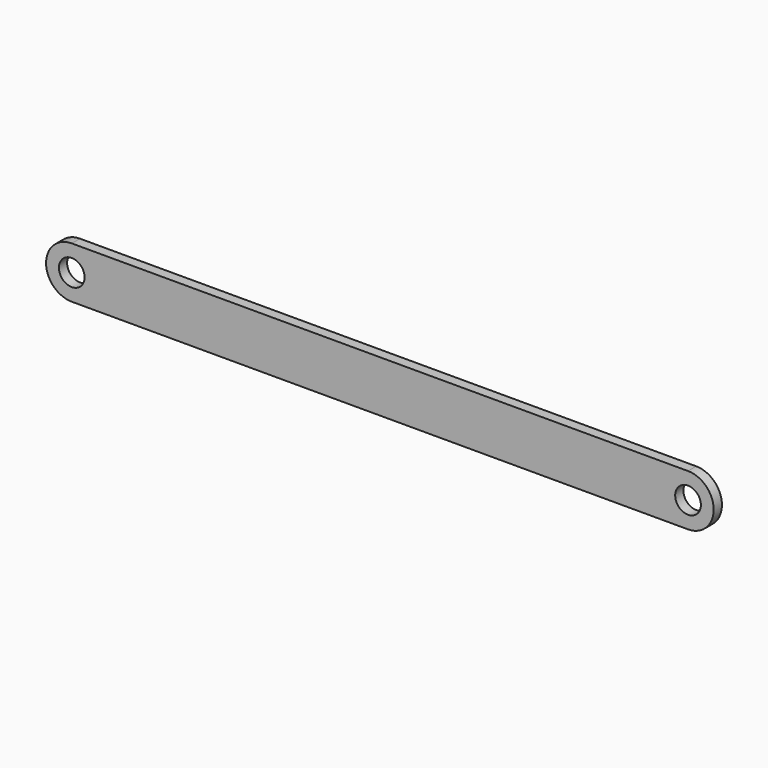
from build123d import *

# Parameters (mm, degrees)
F0_R     = 3.175
F1_DEPTH = 2.54


with BuildPart() as f1:
    # F0 (on Front) → F1 (new body)
    with BuildSketch(Plane.XZ):
        with BuildLine():
            Line((-76.2, -6.35), (0, -6.35))
            ThreePointArc((0, -6.35), (6.35, 0), (0, 6.35))
            Line((0, 6.35), (-76.2, 6.35))
            Line((-76.2, 6.35), (-76.2, -6.35))
        make_face()
        Circle(F0_R, mode=Mode.SUBTRACT)
    extrude(amount=-F1_DEPTH)

    # F2: F1 across face


with BuildPart() as f1_1:
    add(f1.part)
    add(f1.part.mirror(Plane(origin=(-76.2, 1.27, 0), x_dir=(0, -1, 0), z_dir=(-1, 0, 0))))


solid = f1_1.part
